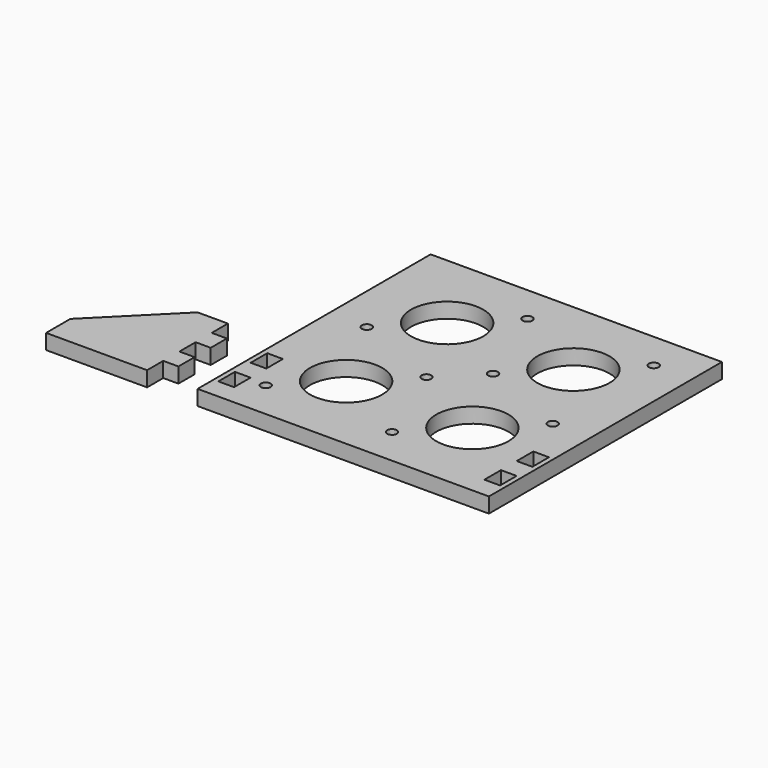
from build123d import *

# Parameters (mm, degrees)
F1_W     = 115.3553390593
F1_H     = 115.3553390593
F1_W_2   = 6.2
F1_H_2   = 8.2
F1_R     = 1.9304
F1_R_2   = 14.3
F2_DEPTH = 6


with BuildPart() as f2:
    # F1 (on Top) → F2 (new body)
    with BuildSketch(Plane.XY):
        with Locations((57.6776695297, 57.6776695297)):
            Rectangle(F1_W, F1_H)
        with Locations((5, 12)):
            Rectangle(F1_W_2, F1_H_2, mode=Mode.SUBTRACT)
        with Locations((5, 28)):
            Rectangle(F1_W_2, F1_H_2, mode=Mode.SUBTRACT)
        with Locations((15, 15)):
            Circle(F1_R, mode=Mode.SUBTRACT)
        with Locations((65, 15)):
            Circle(F1_R, mode=Mode.SUBTRACT)
        with Locations((110.3553390593, 12)):
            Rectangle(F1_W_2, F1_H_2, mode=Mode.SUBTRACT)
        with Locations((110.3553390593, 28)):
            Rectangle(F1_W_2, F1_H_2, mode=Mode.SUBTRACT)
        with Locations((32.6776695297, 32.6776695297)):
            Circle(F1_R_2, mode=Mode.SUBTRACT)
        with Locations((50.3553390593, 50.3553390593)):
            Circle(F1_R, mode=Mode.SUBTRACT)
        with Locations((82.6776695297, 32.6776695297)):
            Circle(F1_R_2, mode=Mode.SUBTRACT)
        with Locations((100.3553390593, 50.3553390593)):
            Circle(F1_R, mode=Mode.SUBTRACT)
        with Locations((15, 65)):
            Circle(F1_R, mode=Mode.SUBTRACT)
        with Locations((65, 65)):
            Circle(F1_R, mode=Mode.SUBTRACT)
        with Locations((32.6776695297, 82.6776695297)):
            Circle(F1_R_2, mode=Mode.SUBTRACT)
        with Locations((82.6776695297, 82.6776695297)):
            Circle(F1_R_2, mode=Mode.SUBTRACT)
        with Locations((50.3553390593, 100.3553390593)):
            Circle(F1_R, mode=Mode.SUBTRACT)
        with Locations((100.3553390593, 100.3553390593)):
            Circle(F1_R, mode=Mode.SUBTRACT)
    extrude(amount=F2_DEPTH)


with BuildPart() as f2b:
    # F1 (on Top) → F2, piece 2 (new body)
    with BuildSketch(Plane.XY):
        Polygon((-20, 40), (-32, 40), (-60, 12), (-60, 0), (-20, 0), (-20, 8), (-14, 8), (-14, 16), (-20, 16), (-20, 24), (-14, 24), (-14, 32), (-20, 32), align=None)
    extrude(amount=F2_DEPTH)


solid = Compound([f2.part, f2b.part])
